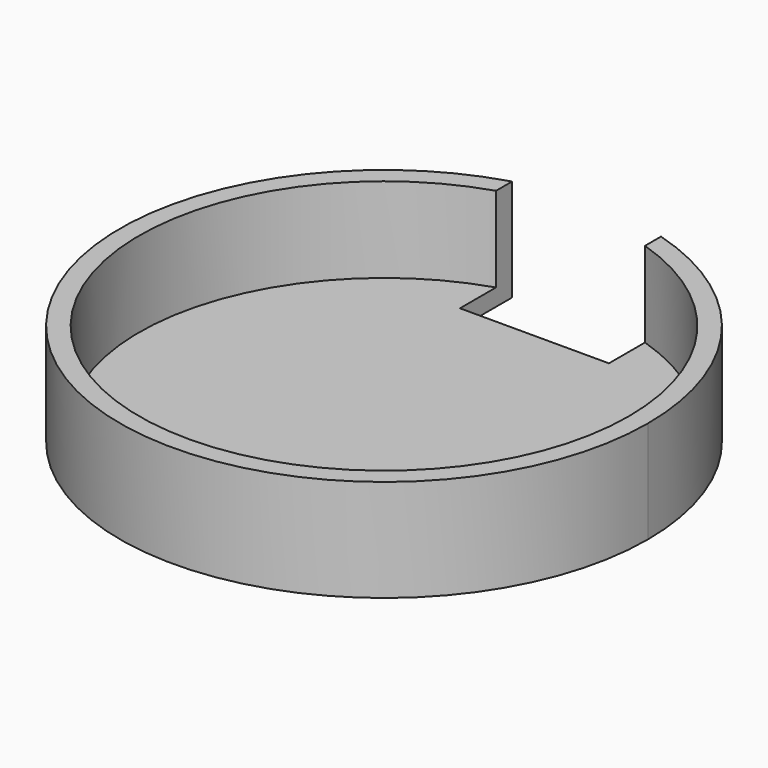
from build123d import *

# Parameters (mm, degrees)
F1_DEPTH      = 2
F2_DEPTH      = 10
F3_DEPTH      = 2.001
F4_DEPTH      = 25
F4_DEPTH_BACK = 25


with BuildPart() as f1:
    # F0 (on Top) → F1 (new body)
    with BuildSketch(Plane.XY):
        with BuildLine():
            Line((8.75, 27.3861278753), (8.75, 29.7394939432))
            ThreePointArc((8.75, 29.7394939432), (0, 31), (-8.75, 29.7394939432))
            Line((-8.75, 29.7394939432), (-8.75, 27.3861278753))
            ThreePointArc((-8.75, 27.3861278753), (0, 28.75), (8.75, 27.3861278753))
        make_face()
        with BuildLine():
            ThreePointArc((-8.75, 29.7394939432), (-18.5708104293, -24.821865361), (31, 0))
            ThreePointArc((31, 0), (24.821865361, 18.5708104293), (8.75, 29.7394939432))
            Line((8.75, 29.7394939432), (8.75, 27.3861278753))
            ThreePointArc((8.75, 27.3861278753), (23.2177195263, 16.9558249578), (28.75, 0))
            ThreePointArc((28.75, 0), (-16.9558249578, -23.2177195263), (-8.75, 27.3861278753))
            Line((-8.75, 27.3861278753), (-8.75, 29.7394939432))
        make_face()
        with BuildLine():
            Line((8.75, 22.0912080258), (8.75, 27.3861278753))
            ThreePointArc((8.75, 27.3861278753), (0, 28.75), (-8.75, 27.3861278753))
            Line((-8.75, 27.3861278753), (-8.75, 22.0912080258))
            Line((-8.75, 22.0912080258), (8.75, 22.0912080258))
        make_face()
        with BuildLine():
            ThreePointArc((28.75, 0), (23.2177195263, 16.9558249578), (8.75, 27.3861278753))
            Line((8.75, 27.3861278753), (8.75, 22.0912080258))
            Line((8.75, 22.0912080258), (-8.75, 22.0912080258))
            Line((-8.75, 22.0912080258), (-8.75, 27.3861278753))
            ThreePointArc((-8.75, 27.3861278753), (-16.9558249578, -23.2177195263), (28.75, 0))
        make_face()
    extrude(amount=-F1_DEPTH)

    # F0 (on Top) → F2 (join)
    with BuildSketch(Plane.XY):
        with BuildLine():
            Line((8.75, 27.3861278753), (8.75, 29.7394939432))
            ThreePointArc((8.75, 29.7394939432), (0, 31), (-8.75, 29.7394939432))
            Line((-8.75, 29.7394939432), (-8.75, 27.3861278753))
            ThreePointArc((-8.75, 27.3861278753), (0, 28.75), (8.75, 27.3861278753))
        make_face()
        with BuildLine():
            ThreePointArc((-8.75, 29.7394939432), (-18.5708104293, -24.821865361), (31, 0))
            ThreePointArc((31, 0), (24.821865361, 18.5708104293), (8.75, 29.7394939432))
            Line((8.75, 29.7394939432), (8.75, 27.3861278753))
            ThreePointArc((8.75, 27.3861278753), (23.2177195263, 16.9558249578), (28.75, 0))
            ThreePointArc((28.75, 0), (-16.9558249578, -23.2177195263), (-8.75, 27.3861278753))
            Line((-8.75, 27.3861278753), (-8.75, 29.7394939432))
        make_face()
    extrude(amount=F2_DEPTH)

    # F0 (on Top) → F3 (cut, through all)
    with BuildSketch(Plane.XY):
        with BuildLine():
            Line((8.75, 22.0912080258), (8.75, 27.3861278753))
            ThreePointArc((8.75, 27.3861278753), (0, 28.75), (-8.75, 27.3861278753))
            Line((-8.75, 27.3861278753), (-8.75, 22.0912080258))
            Line((-8.75, 22.0912080258), (8.75, 22.0912080258))
        make_face()
        with BuildLine():
            ThreePointArc((-8.75, 29.7394939432), (0, 31), (8.75, 29.7394939432))
            Line((8.75, 29.7394939432), (8.75, 35.3688262403))
            Line((8.75, 35.3688262403), (-8.75, 35.3688262403))
            Line((-8.75, 35.3688262403), (-8.75, 29.7394939432))
        make_face()
        with BuildLine():
            Line((8.75, 27.3861278753), (8.75, 29.7394939432))
            ThreePointArc((8.75, 29.7394939432), (0, 31), (-8.75, 29.7394939432))
            Line((-8.75, 29.7394939432), (-8.75, 27.3861278753))
            ThreePointArc((-8.75, 27.3861278753), (0, 28.75), (8.75, 27.3861278753))
        make_face()
    extrude(amount=-F3_DEPTH, mode=Mode.SUBTRACT)

    # F0 (on Top) → F4 (cut, two sides)
    with BuildSketch(Plane.XY) as f4_sk:
        with BuildLine():
            Line((8.75, 27.3861278753), (8.75, 29.7394939432))
            ThreePointArc((8.75, 29.7394939432), (0, 31), (-8.75, 29.7394939432))
            Line((-8.75, 29.7394939432), (-8.75, 27.3861278753))
            ThreePointArc((-8.75, 27.3861278753), (0, 28.75), (8.75, 27.3861278753))
        make_face()
    extrude(amount=-F4_DEPTH, mode=Mode.SUBTRACT)
    extrude(f4_sk.sketch, amount=F4_DEPTH_BACK, mode=Mode.SUBTRACT)


solid = f1.part
